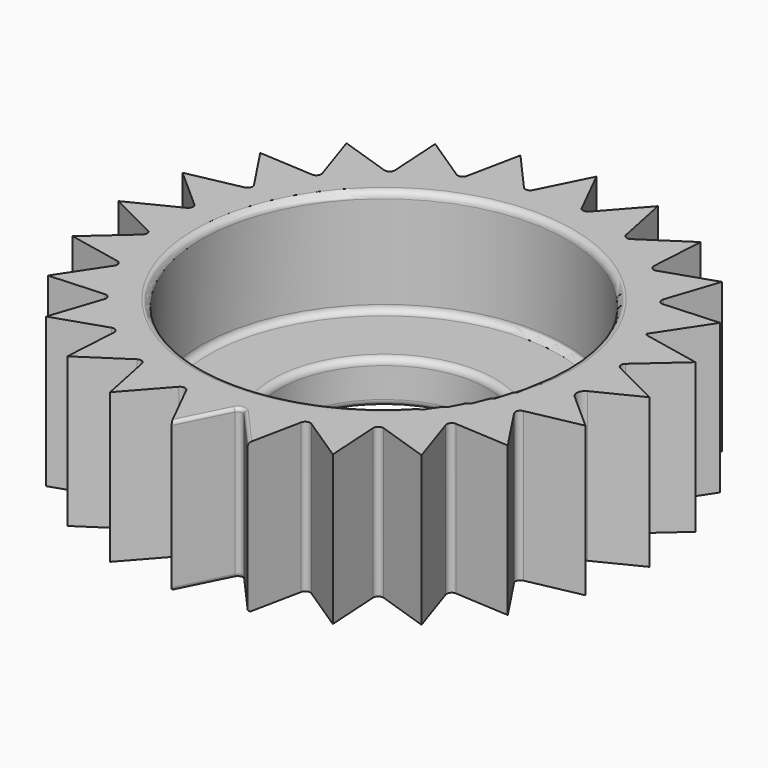
from build123d import *

# Parameters (mm, degrees)
F0_R     = 5.5
F1_DEPTH = 4.5
F0_R_2   = 3.15
F2_DEPTH = 1.3
F3_R     = 0.2
F4_R     = 0.1


with BuildPart() as f1:
    # F0 (on Top) → F1 (new body)
    with BuildSketch(Plane.XY):
        with BuildLine():
            ThreePointArc((0.980887, 6.498578), (0.849077, 6.449381), (0.734492, 6.531016))
            Line((0.734492, 6.531016), (0, 8))
            Line((0, 8), (-0.734492, 6.531016))
            ThreePointArc((-0.734492, 6.531016), (-0.849077, 6.449381), (-0.980887, 6.498578))
            Line((-0.980887, 6.498578), (-2.070552, 7.727407))
            Line((-2.070552, 7.727407), (-2.399816, 6.118376))
            ThreePointArc((-2.399816, 6.118376), (-2.489368, 6.009867), (-2.629419, 6.023272))
            Line((-2.629419, 6.023272), (-4, 6.928203))
            Line((-4, 6.928203), (-3.901597, 5.28878))
            ThreePointArc((-3.901597, 5.28878), (-3.960013, 5.160789), (-4.098761, 5.13749))
            Line((-4.098761, 5.13749), (-5.656854, 5.656854))
            Line((-5.656854, 5.656854), (-5.13749, 4.098761))
            ThreePointArc((-5.13749, 4.098761), (-5.160789, 3.960013), (-5.28878, 3.901597))
            Line((-5.28878, 3.901597), (-6.928203, 4))
            Line((-6.928203, 4), (-6.023272, 2.629419))
            ThreePointArc((-6.023272, 2.629419), (-6.009867, 2.489368), (-6.118376, 2.399816))
            Line((-6.118376, 2.399816), (-7.727407, 2.070552))
            Line((-7.727407, 2.070552), (-6.498578, 0.980887))
            ThreePointArc((-6.498578, 0.980887), (-6.449381, 0.849077), (-6.531016, 0.734492))
            Line((-6.531016, 0.734492), (-8, 0))
            Line((-8, 0), (-6.531016, -0.734492))
            ThreePointArc((-6.531016, -0.734492), (-6.449381, -0.849077), (-6.498578, -0.980887))
            Line((-6.498578, -0.980887), (-7.727407, -2.070552))
            Line((-7.727407, -2.070552), (-6.118376, -2.399816))
            ThreePointArc((-6.118376, -2.399816), (-6.009867, -2.489368), (-6.023272, -2.629419))
            Line((-6.023272, -2.629419), (-6.928203, -4))
            Line((-6.928203, -4), (-5.28878, -3.901597))
            ThreePointArc((-5.28878, -3.901597), (-5.160789, -3.960013), (-5.13749, -4.098761))
            Line((-5.13749, -4.098761), (-5.656854, -5.656854))
            Line((-5.656854, -5.656854), (-4.098761, -5.13749))
            ThreePointArc((-4.098761, -5.13749), (-3.960013, -5.160789), (-3.901597, -5.28878))
            Line((-3.901597, -5.28878), (-4, -6.928203))
            Line((-4, -6.928203), (-2.629419, -6.023272))
            ThreePointArc((-2.629419, -6.023272), (-2.489368, -6.009867), (-2.399816, -6.118376))
            Line((-2.399816, -6.118376), (-2.070552, -7.727407))
            Line((-2.070552, -7.727407), (-0.980887, -6.498578))
            ThreePointArc((-0.980887, -6.498578), (-0.849077, -6.449381), (-0.734492, -6.531016))
            Line((-0.734492, -6.531016), (0, -8))
            Line((0, -8), (0.734492, -6.531016))
            ThreePointArc((0.734492, -6.531016), (0.849077, -6.449381), (0.980887, -6.498578))
            Line((0.980887, -6.498578), (2.070552, -7.727407))
            Line((2.070552, -7.727407), (2.399816, -6.118376))
            ThreePointArc((2.399816, -6.118376), (2.489368, -6.009867), (2.629419, -6.023272))
            Line((2.629419, -6.023272), (4, -6.928203))
            Line((4, -6.928203), (3.901597, -5.28878))
            ThreePointArc((3.901597, -5.28878), (3.960013, -5.160789), (4.098761, -5.13749))
            Line((4.098761, -5.13749), (5.656854, -5.656854))
            Line((5.656854, -5.656854), (5.13749, -4.098761))
            ThreePointArc((5.13749, -4.098761), (5.160789, -3.960013), (5.28878, -3.901597))
            Line((5.28878, -3.901597), (6.928203, -4))
            Line((6.928203, -4), (6.023272, -2.629419))
            ThreePointArc((6.023272, -2.629419), (6.009867, -2.489368), (6.118376, -2.399816))
            Line((6.118376, -2.399816), (7.727407, -2.070552))
            Line((7.727407, -2.070552), (6.609232, -1.079009))
            ThreePointArc((6.609232, -1.079009), (6.527238, -0.859327), (6.663296, -0.668352))
            Line((6.663296, -0.668352), (8, 0))
            Line((8, 0), (6.531016, 0.734492))
            ThreePointArc((6.531016, 0.734492), (6.449381, 0.849077), (6.498578, 0.980887))
            Line((6.498578, 0.980887), (7.727407, 2.070552))
            Line((7.727407, 2.070552), (5.973485, 2.429466))
            ThreePointArc((5.973485, 2.429466), (5.937315, 2.459317), (5.941784, 2.506))
            Line((5.941784, 2.506), (6.928203, 4))
            Line((6.928203, 4), (5.28878, 3.901597))
            ThreePointArc((5.28878, 3.901597), (5.160789, 3.960013), (5.13749, 4.098761))
            Line((5.13749, 4.098761), (5.656854, 5.656854))
            Line((5.656854, 5.656854), (4.098761, 5.13749))
            ThreePointArc((4.098761, 5.13749), (3.960013, 5.160789), (3.901597, 5.28878))
            Line((3.901597, 5.28878), (4, 6.928203))
            Line((4, 6.928203), (2.629419, 6.023272))
            ThreePointArc((2.629419, 6.023272), (2.489368, 6.009867), (2.399816, 6.118376))
            Line((2.399816, 6.118376), (2.070552, 7.727407))
            Line((2.070552, 7.727407), (0.980887, 6.498578))
        make_face()
        Circle(F0_R, mode=Mode.SUBTRACT)
    extrude(amount=F1_DEPTH)

    # F0 (on Top) → F2 (join)
    with BuildSketch(Plane.XY):
        Circle(F0_R)
        Circle(F0_R_2, mode=Mode.SUBTRACT)
    extrude(amount=F2_DEPTH)

    # F3
    f3_edges = [f1.edges().sort_by_distance(p)[0] for p in [
        (-3.15, 0, 1.3),
        (-5.5, 0, 1.3),
        (-5.5, 0, 4.5),
        (-3.15, 0, 0),
    ]]
    fillet(f3_edges, radius=F3_R)

    # F4
    f4_edges = [f1.edges().sort_by_distance(p)[0] for p in [
        (0.367246, -7.265508, 4.5),
        (0.367246, -7.265508, 0),
    ]]
    fillet(f4_edges, radius=F4_R)


solid = f1.part
